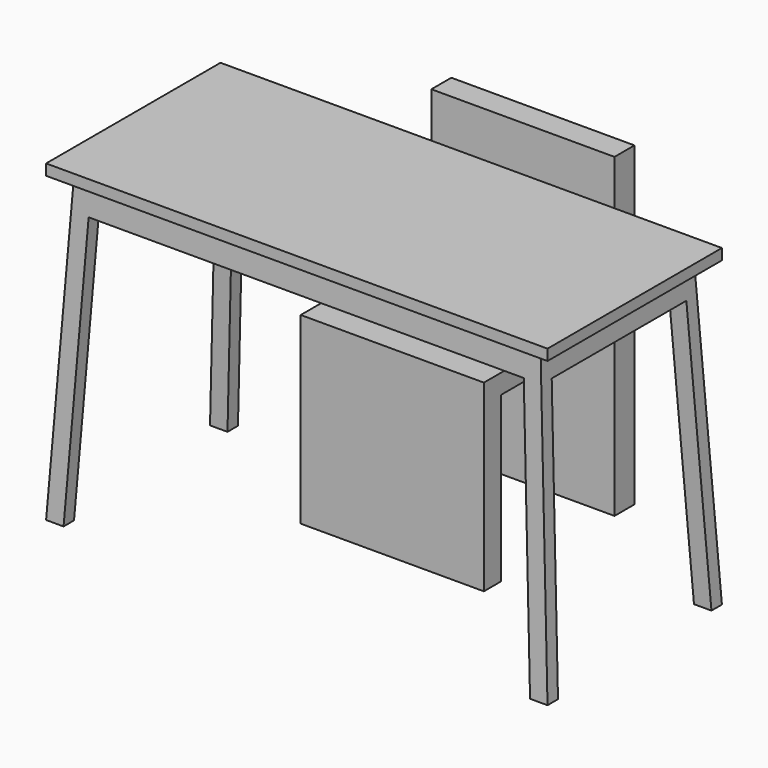
from build123d import *

# Parameters (mm, degrees)
F0_W     = 1150
F0_H     = 720
F1_DEPTH = 500
F3_DEPTH = 500.001
F5_DEPTH = 1150.001
F7_DEPTH = 210


with BuildPart() as f1:
    # F0 (on Front) → F1 (new body)
    with BuildSketch(Plane.XZ):
        with Locations((0, 360)):
            Rectangle(F0_W, F0_H)
    extrude(amount=F1_DEPTH)

    # F2 (on face) → F3 (cut, through all)
    with BuildSketch(Plane(origin=(0, 0, 0), x_dir=(-1, 0, 0), z_dir=(0, 1, 0))):
        Polygon((-617.043245, 718.636699), (-575, 695), (-575, 720), (575, 720), (575, 695), (663.800895, 695), (680.074453, 727.908708), (680.074453, 757.201917), (-617.043245, 757.201917), align=None)
        Polygon((-575, 695), (-575, 0), (-535, 695), align=None)
        Polygon((-498.962583, 625), (-534.933806, 0), (534.933806, 0), (498.962583, 625), align=None)
        Polygon((535, 695), (575, 0), (575, 695), align=None)
    extrude(amount=-F3_DEPTH, mode=Mode.SUBTRACT)

    # F4 (on face) → F5 (cut, through all)
    with BuildSketch(Plane(origin=(-575, 0, 0), x_dir=(0, -1, 0), z_dir=(-1, 0, 0))):
        Polygon((-66.164687, 695), (0, 0), (30, 695), align=None)
        Polygon((470, 695), (500, 0), (521.079004, 695), align=None)
        Polygon((57.006353, 625), (30.027936, 0), (469.972064, 0), (442.993647, 625), align=None)
    extrude(amount=-F5_DEPTH, mode=Mode.SUBTRACT)


with BuildPart() as f7:
    # F6 (on Right) → F7 (new body, symmetric)
    with BuildSketch(Plane.YZ):
        Polygon((-226.184428, 0), (-177.666917, 0), (-177.666917, 376.615703), (148.271248, 376.615703), (148.271248, 0), (205.497026, 0), (205.497026, 724.946558), (148.271248, 724.946558), (148.271248, 421.401083), (-226.184428, 421.401083), align=None)
    extrude(amount=F7_DEPTH, both=True)


solid = Compound([f1.part, f7.part])
